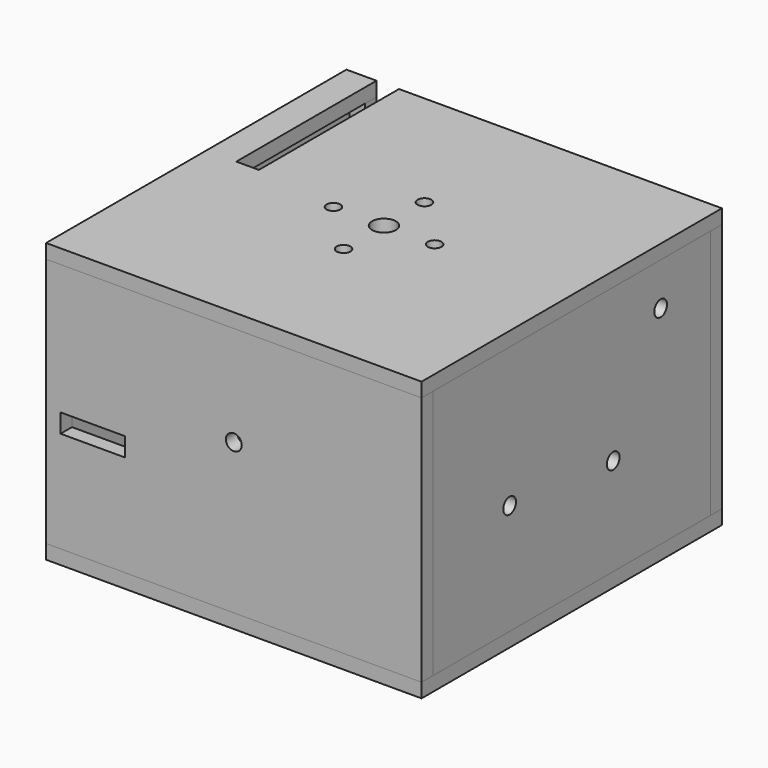
from build123d import *

# Parameters (mm, degrees)
F0_R      = 2.75
F0_R_2    = 4.7625
F1_DEPTH  = 5.7
F2_W      = 150
F2_H      = 100
F2_W_2    = 25.75
F2_H_2    = 7.5
F2_R      = 3.175
F3_DEPTH  = 5.7
F4_W      = 138.6
F4_H      = 100
F4_R      = 3.175
F5_DEPTH  = 5.7
F6_W      = 150
F6_H      = 150
F6_R      = 3.175
F7_DEPTH  = 5.7
F11_DEPTH = 5.7
F8_R      = 1.5
F8_R_2    = 3.175
F12_DEPTH = 25


with BuildPart() as f1:
    # F0 (on Top) → F1 (new body)
    with BuildSketch(Plane.XY):
        Polygon((75, -75), (75, 75), (-54, 75), (-54, 5), (-63, 5), (-63, 75), (-75, 75), (-75, -75), align=None)
        with Locations((0, -20.203669)):
            Circle(F0_R, mode=Mode.SUBTRACT)
        with Locations((-20.203669, 0)):
            Circle(F0_R, mode=Mode.SUBTRACT)
        Circle(F0_R_2, mode=Mode.SUBTRACT)
        with Locations((20.203669, 0)):
            Circle(F0_R, mode=Mode.SUBTRACT)
        with Locations((0, 20.203669)):
            Circle(F0_R, mode=Mode.SUBTRACT)
    extrude(amount=F1_DEPTH)


with BuildPart() as f3:
    # F2 (on face) → F3 (new body)
    with BuildSketch(Plane.XZ.offset(75)):
        with Locations((0, -50)):
            Rectangle(F2_W, F2_H)
        with Locations((-56.325, -55.75)):
            Rectangle(F2_W_2, F2_H_2, mode=Mode.SUBTRACT)
        with Locations((0, -40)):
            Circle(F2_R, mode=Mode.SUBTRACT)
    extrude(amount=-F3_DEPTH)


with BuildPart() as f5:
    # F4 (on face) → F5 (new body)
    with BuildSketch(Plane.YZ.offset(75)):
        with Locations((0, -50)):
            Rectangle(F4_W, F4_H)
        with Locations((-31.025, -55.75)):
            Circle(F4_R, mode=Mode.SUBTRACT)
        with Locations((20.706071, -61.031691)):
            Circle(F4_R, mode=Mode.SUBTRACT)
        with Locations((44.395946, -17)):
            Circle(F4_R, mode=Mode.SUBTRACT)
    extrude(amount=-F5_DEPTH)


with BuildPart() as f7:
    # F6 (on face) → F7 (new body)
    with BuildSketch(Plane(origin=(0, 0, -100), x_dir=(1, 0, 0), z_dir=(0, 0, -1))):
        Rectangle(F6_W, F6_H)
        Circle(F6_R, mode=Mode.SUBTRACT)
    extrude(amount=F7_DEPTH)


with BuildPart() as f9_1:
    # F9: instance of F5
    add(f5.part.mirror(Plane.YZ))

    # F8 (on face) → F12 (cut)
    with BuildSketch(Plane(origin=(-75, 0, 0), x_dir=(0, -1, 0), z_dir=(-1, 0, 0))):
        with Locations((59.525, -55.75)):
            Circle(F8_R)
        with Locations((0, -40)):
            Circle(F8_R_2)
    extrude(amount=-F12_DEPTH, mode=Mode.SUBTRACT)


with BuildPart() as f11:
    # F10 (on face) → F11 (new body)
    with BuildSketch(Plane(origin=(0, 75, 0), x_dir=(-1, 0, 0), z_dir=(0, 1, 0))):
        Polygon((54, 0), (-75, 0), (-75, -100), (75, -100), (75, 0), (63, 0), (63, -51), (54, -51), align=None)
    extrude(amount=-F11_DEPTH)


solid = Compound([f1.part, f3.part, f5.part, f7.part, f9_1.part, f11.part])
